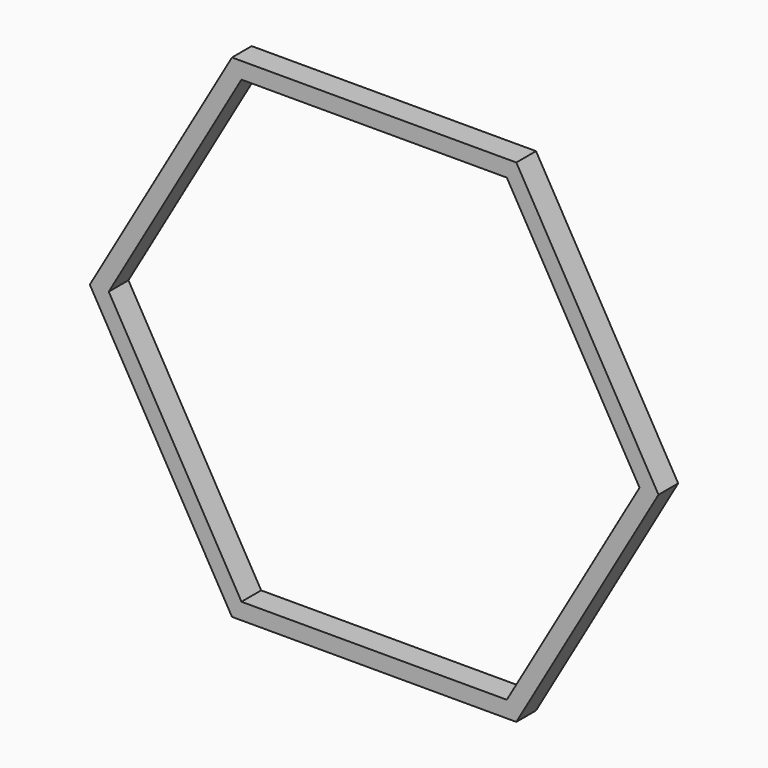
from build123d import *

# Parameters (mm, degrees)
F1_DEPTH = 1.905


with BuildPart() as f1:
    # F0 (on Front) → F1 (new body, symmetric)
    with BuildSketch(Plane.XZ):
        Polygon((-21.997045, -38.1), (21.997045, -38.1), (43.994091, 0), (21.997045, 38.1), (-21.997045, 38.1), (-43.994091, 0), align=None)
        Polygon((-41.061151, 0), (-20.530576, 35.56), (20.530576, 35.56), (41.061151, 0), (20.530576, -35.56), (-20.530576, -35.56), align=None, mode=Mode.SUBTRACT)
    extrude(amount=F1_DEPTH, both=True)


solid = f1.part
